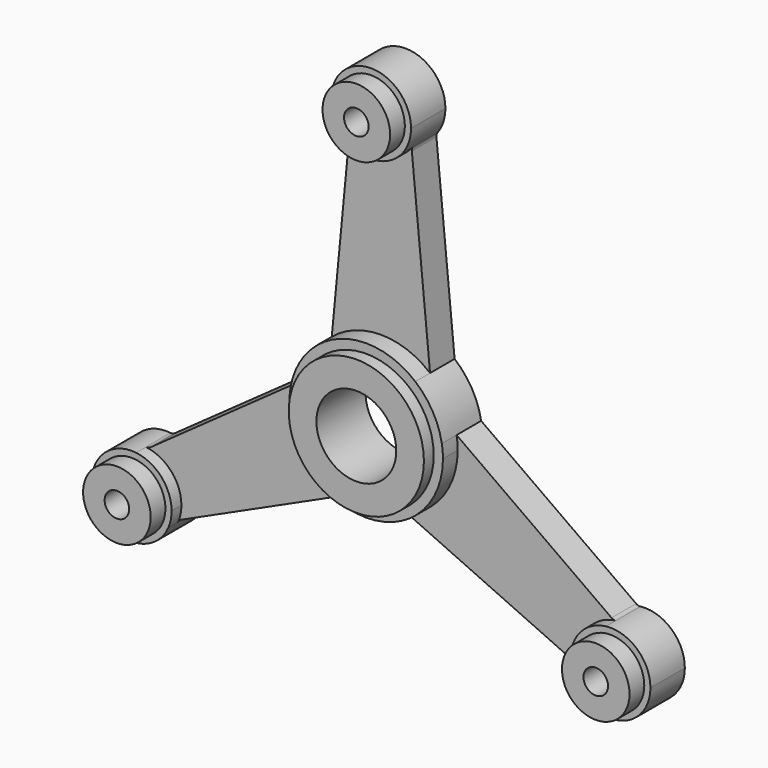
from build123d import *

# Parameters (mm, degrees)
F1_DEPTH = 5
F0_R     = 11
F2_DEPTH = 8
F0_R_2   = 6.5
F3_DEPTH = 10
F0_R_3   = 5.5
F4_DEPTH = 7
F0_R_4   = 2
F5_DEPTH = 10


with BuildPart() as f1:
    # F0 (on Front) → F1 (new body)
    with BuildSketch(Plane.XZ):
        with BuildLine():
            ThreePointArc((-8, 9.604686), (0, 12.5), (8, 9.604686))
            Line((8, 9.604686), (5.038139, 40.449513))
            ThreePointArc((5.038139, 40.449513), (5.069826, 40.811961), (5.229085, 41.139085))
            ThreePointArc((5.229085, 41.139085), (0, 38.5), (-5.229085, 41.139085))
            ThreePointArc((-5.229085, 41.139085), (-5.069826, 40.811961), (-5.038139, 40.449513))
            Line((-5.038139, 40.449513), (-8, 9.604686))
        make_face()
        with BuildLine():
            ThreePointArc((12.317902, 2.12586), (12.454392, 1.066822), (12.5, 0))
            ThreePointArc((12.5, 0), (10.252409, -7.151092), (4.317902, -11.730546))
            Line((4.317902, -11.730546), (32.511236, -24.587912))
            ThreePointArc((32.511236, -24.587912), (32.809283, -24.796579), (33.01295, -25.098063))
            ThreePointArc((33.01295, -25.098063), (33.341978, -19.25), (38.242035, -16.041022))
            ThreePointArc((38.242035, -16.041022), (37.879108, -16.015383), (37.549375, -15.8616))
            Line((37.549375, -15.8616), (12.317902, 2.12586))
        make_face()
        with BuildLine():
            Line((-32.511236, -24.587912), (-4.317902, -11.730546))
            ThreePointArc((-4.317902, -11.730546), (-10.825318, -6.25), (-12.317902, 2.12586))
            Line((-12.317902, 2.12586), (-37.549375, -15.8616))
            ThreePointArc((-37.549375, -15.8616), (-37.879108, -16.015383), (-38.242035, -16.041022))
            ThreePointArc((-38.242035, -16.041022), (-34.12402, -18.16925), (-32.471143, -22.5))
            ThreePointArc((-32.471143, -22.5), (-32.608036, -23.826978), (-33.01295, -25.098063))
            ThreePointArc((-33.01295, -25.098063), (-32.809283, -24.796579), (-32.511236, -24.587912))
        make_face()
    extrude(amount=F1_DEPTH)


with BuildPart() as f2:
    # F0 (on Front) → F2 (new body)
    with BuildSketch(Plane.XZ):
        with BuildLine():
            ThreePointArc((4.317902, -11.730546), (10.252409, -7.151092), (12.5, 0))
            ThreePointArc((12.5, 0), (12.454392, 1.066822), (12.317902, 2.12586))
            ThreePointArc((12.317902, 2.12586), (10.825318, 6.25), (8, 9.604686))
            ThreePointArc((8, 9.604686), (0, 12.5), (-8, 9.604686))
            ThreePointArc((-8, 9.604686), (-10.825318, 6.25), (-12.317902, 2.12586))
            ThreePointArc((-12.317902, 2.12586), (-10.825318, -6.25), (-4.317902, -11.730546))
            ThreePointArc((-4.317902, -11.730546), (0, -12.5), (4.317902, -11.730546))
        make_face()
        Circle(F0_R, mode=Mode.SUBTRACT)
    extrude(amount=F2_DEPTH)

    # F0 (on Front) → F3 (join)
    with BuildSketch(Plane.XZ):
        Circle(F0_R)
        Circle(F0_R_2, mode=Mode.SUBTRACT)
    extrude(amount=F3_DEPTH)


with BuildPart() as f4:
    # F0 (on Front) → F4 (new body)
    with BuildSketch(Plane.XZ):
        with BuildLine():
            ThreePointArc((-38.242035, -16.041022), (-44.600308, -25.75), (-33.01295, -25.098063))
            ThreePointArc((-33.01295, -25.098063), (-32.608036, -23.826978), (-32.471143, -22.5))
            ThreePointArc((-32.471143, -22.5), (-34.12402, -18.16925), (-38.242035, -16.041022))
        make_face()
        with Locations((-38.971143, -22.5)):
            Circle(F0_R_3, mode=Mode.SUBTRACT)
        with BuildLine():
            ThreePointArc((45.471143, -22.5), (43.301893, -17.652877), (38.242035, -16.041022))
            ThreePointArc((38.242035, -16.041022), (33.341978, -19.25), (33.01295, -25.098063))
            ThreePointArc((33.01295, -25.098063), (40.298121, -28.863107), (45.471143, -22.5))
        make_face()
        with Locations((38.971143, -22.5)):
            Circle(F0_R_3, mode=Mode.SUBTRACT)
        with BuildLine():
            ThreePointArc((-5.229085, 41.139085), (0, 38.5), (5.229085, 41.139085))
            ThreePointArc((5.229085, 41.139085), (6.174101, 42.967643), (6.5, 45))
            ThreePointArc((6.5, 45), (-2.032357, 51.174101), (-5.229085, 41.139085))
        make_face()
        with Locations((0, 45)):
            Circle(F0_R_3, mode=Mode.SUBTRACT)
    extrude(amount=F4_DEPTH)


with BuildPart() as f5:
    # F0 (on Front) → F5 (new body)
    with BuildSketch(Plane.XZ):
        with Locations((0, 45)):
            Circle(F0_R_3)
        with Locations((0, 45)):
            Circle(F0_R_4, mode=Mode.SUBTRACT)
        with Locations((38.971143, -22.5)):
            Circle(F0_R_3)
        with Locations((38.971143, -22.5)):
            Circle(F0_R_4, mode=Mode.SUBTRACT)
        with Locations((-38.971143, -22.5)):
            Circle(F0_R_3)
        with Locations((-38.971143, -22.5)):
            Circle(F0_R_4, mode=Mode.SUBTRACT)
    extrude(amount=F5_DEPTH)


solid = Compound([f1.part, f2.part, f4.part, f5.part])
